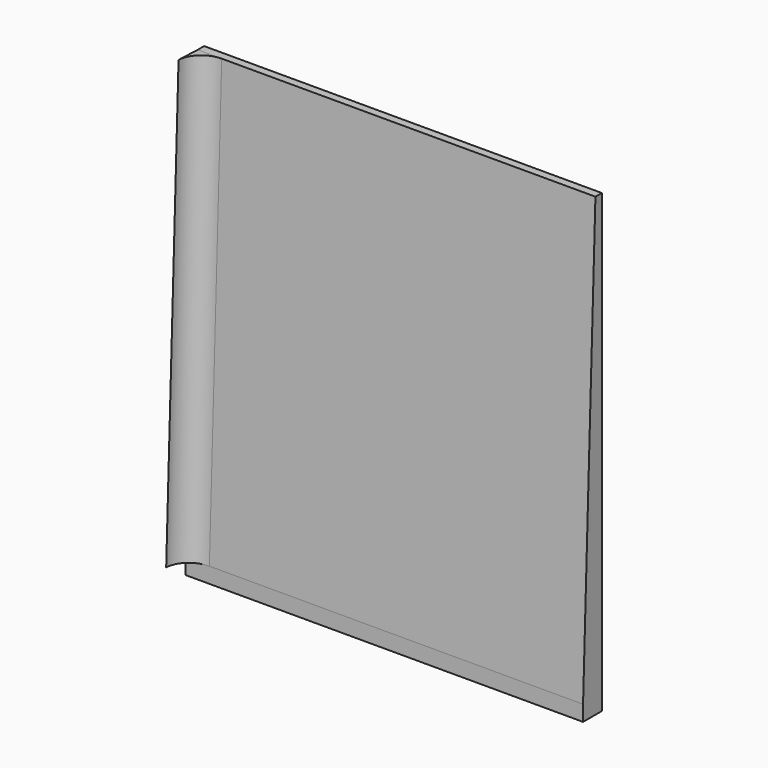
from build123d import *

# Parameters (mm, degrees)
F0_W     = 126.238
F0_H     = 156.718
F1_DEPTH = 25.4
F3_DEPTH = 124.46
F4_DEPTH = 152.4
F5_W     = 7.62
F5_H     = 139.9129815726
F6_DEPTH = 7.62
F8_DEPTH = 152.4


with BuildPart() as f1:
    # F0 (on Front) → F1 (new body)
    with BuildSketch(Plane.XZ):
        with Locations((-22.7268721203, 17.8661712823)):
            Rectangle(F0_W, F0_H)
    extrude(amount=F1_DEPTH)

    # F2 (on face) → F3 (cut)
    with BuildSketch(Plane(origin=(-85.8458721203, 0, 0), x_dir=(0, -1, 0), z_dir=(-1, 0, 0))):
        Polygon((4.9062082183, -55.539762938), (0, 84.2871712823), (0, -60.4928287177), (4.9062082183, -60.4928287177), align=None)
    extrude(amount=-F3_DEPTH, mode=Mode.SUBTRACT)

    # F2 (on face) → F4 (cut)
    with BuildSketch(Plane(origin=(-85.8458721203, 0, 0), x_dir=(0, -1, 0), z_dir=(-1, 0, 0))):
        Polygon((0, 84.2871712823), (2.54, 84.2871712823), (7.4462082183, -55.539762938), (7.4462082183, -60.4928287177), (25.4, -60.4928287177), (25.4, 96.2251712823), (0, 96.2251712823), align=None)
    extrude(amount=-F4_DEPTH, mode=Mode.SUBTRACT)

    # F5 (on face) → F6 (join)
    with BuildSketch(Plane(origin=(0, -5.4906847606, 0.1926556056), x_dir=(1, 0, 0), z_dir=(0, -0.9993849938, 0.0350661401))):
        with Locations((-82.0358721203, 14.1897753664)):
            Rectangle(F5_W, F5_H)
    extrude(amount=F6_DEPTH)

    # F7 (on face) → F8 (cut)
    with BuildSketch(Plane(origin=(0, 2.9506847606, 84.0945156767), x_dir=(1, 0, 0), z_dir=(0, 0.0350661401, 0.9993849938))):
        with BuildLine():
            Line((-78.2258721203, -13.1140636438), (-78.2258721203, -5.4940636438))
            ThreePointArc((-78.2258721203, -5.4940636438), (-83.6140257929, -7.7259099712), (-85.8458721203, -13.1140636438))
            Line((-85.8458721203, -13.1140636438), (-78.2258721203, -13.1140636438))
        make_face()
    extrude(amount=-F8_DEPTH, mode=Mode.SUBTRACT)


solid = f1.part
